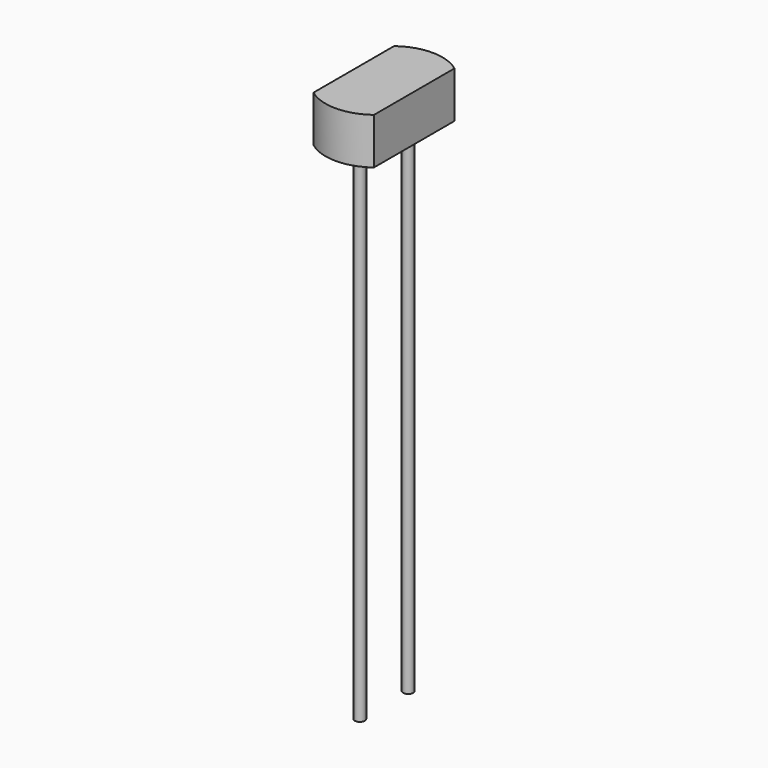
from build123d import *

# Parameters (mm, degrees)
F1_DEPTH = 2.3
F2_R     = 0.25
F3_DEPTH = 25


with BuildPart() as f1:
    # F0 (on Top) → F1 (new body)
    with BuildSketch(Plane.XY):
        with BuildLine():
            ThreePointArc((3, 2.5), (1.5, 3), (0, 2.5))
            Line((0, 2.5), (0, -2.5))
            ThreePointArc((0, -2.5), (1.5, -3), (3, -2.5))
            Line((3, -2.5), (3, 2.5))
        make_face()
    extrude(amount=F1_DEPTH)

    # F2 (on face) → F3 (join)
    with BuildSketch(Plane(origin=(0, 0, 0), x_dir=(1, 0, 0), z_dir=(0, 0, -1))):
        with Locations((1.5, 1.5)):
            Circle(F2_R)
        with Locations((1.5, -1.5)):
            Circle(F2_R)
    extrude(amount=F3_DEPTH)


solid = f1.part
